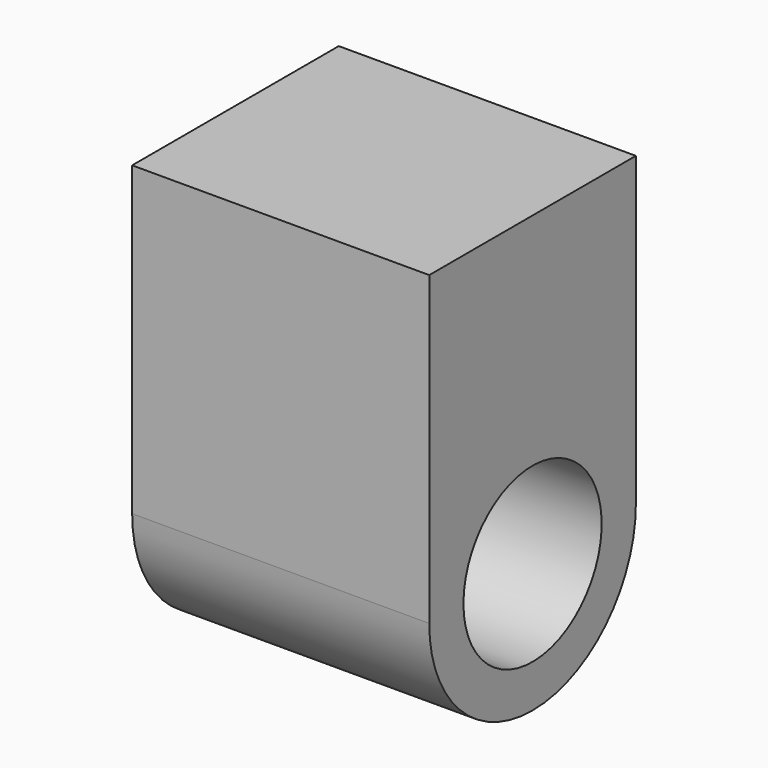
from build123d import *

# Parameters (mm, degrees)
F1_DEPTH = 44.958


with BuildPart() as f1:
    # F0 (on Right) → F1 (new body)
    with BuildSketch(Plane.YZ):
        with BuildLine():
            Line((19.538479, -23.200311), (13.070115, -23.200311))
            ThreePointArc((13.070115, -23.200311), (0, -36.270426), (-13.070115, -23.200311))
            Line((-13.070115, -23.200311), (-19.538479, -23.200311))
            ThreePointArc((-19.538479, -23.200311), (0, -42.73879), (19.538479, -23.200311))
        make_face()
        with BuildLine():
            ThreePointArc((-13.070115, -23.200311), (0, -10.130196), (13.070115, -23.200311))
            Line((13.070115, -23.200311), (19.538479, -23.200311))
            ThreePointArc((19.538479, -23.200311), (0, -3.661832), (-19.538479, -23.200311))
            Line((-19.538479, -23.200311), (-13.070115, -23.200311))
        make_face()
        with BuildLine():
            ThreePointArc((-19.538479, -23.200311), (0, -3.661832), (19.538479, -23.200311))
            Line((19.538479, -23.200311), (19.538479, 23.200311))
            Line((19.538479, 23.200311), (-19.538479, 23.200311))
            Line((-19.538479, 23.200311), (-19.538479, -23.200311))
        make_face()
    extrude(amount=F1_DEPTH)


solid = f1.part
